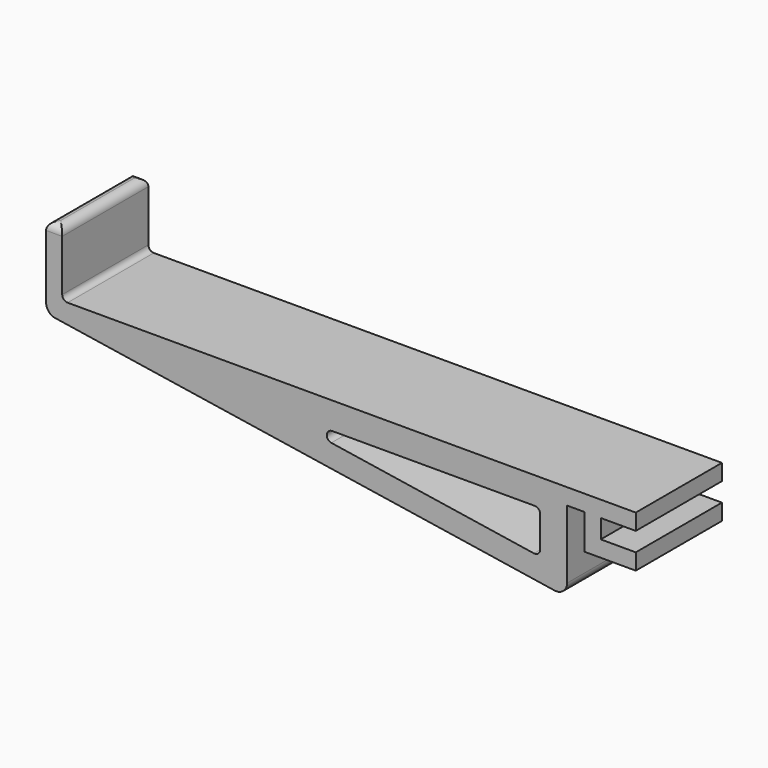
from build123d import *

# Parameters (mm, degrees)
PAD_DEPTH   = 20
FILLET_R    = 2
FILLET001_R = 1.49
FILLET002_R = 1
FILLET003_R = 1


with BuildPart() as part:
    # Sketch → Pad (new body)
    with BuildSketch(Plane.XZ):
        Polygon((0, 15), (-3, 15), (-3, 0), (93.75, -15), (93.75, 0), (97, 0), (97, -6.5), (106.5, -6.5), (106.5, -3.5), (100, -3.5), (100, 0), (106.5, 0), (106.5, 3), (0, 3), align=None)
        Polygon((37.15, -2), (88.75, -2), (88.75, -10), align=None, mode=Mode.SUBTRACT)
    extrude(amount=PAD_DEPTH)

    # Fillet
    fillet_edges = [part.edges().sort_by_distance(p)[0] for p in [
        (-3, -10, 0),
        (93.75, -10, -15),
    ]]
    fillet(fillet_edges, radius=FILLET_R)

    # Fillet001
    fillet001_edges = [part.edges().sort_by_distance(p)[0] for p in [
        (0, -10, 15),
        (-3, -10, 15),
        (-1.5, 0, 15),
        (-1.5, -20, 15),
    ]]
    fillet(fillet001_edges, radius=FILLET001_R)

    # Fillet002
    fillet002_edges = [part.edges().sort_by_distance(p)[0] for p in [
        (37.15, -10, -2),
        (88.75, -10, -2),
        (88.75, -10, -10),
    ]]
    fillet(fillet002_edges, radius=FILLET002_R)

    # Fillet003
    fillet003_edges = [part.edges().sort_by_distance(p)[0] for p in [
        (0, -10, 3),
    ]]
    fillet(fillet003_edges, radius=FILLET003_R)


solid = part.part
